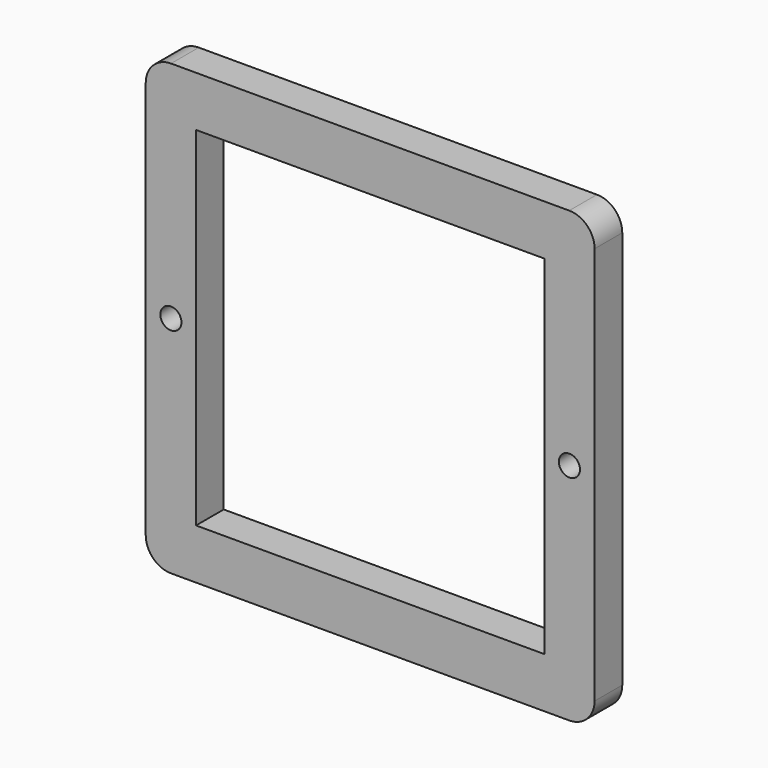
from build123d import *

# Parameters (mm, degrees)
F0_R     = 1.5875
F0_W     = 52.3748
F0_H     = 52.3748
F1_DEPTH = 5.207


with BuildPart() as f1:
    # F0 (on Front) → F1 (new body)
    with BuildSketch(Plane.XZ):
        with BuildLine():
            Line((-29.9466, -33.7566), (29.9466, -33.7566))
            ThreePointArc((29.9466, -33.7566), (32.640677, -32.640677), (33.7566, -29.9466))
            Line((33.7566, -29.9466), (33.7566, 29.9466))
            ThreePointArc((33.7566, 29.9466), (32.640677, 32.640677), (29.9466, 33.7566))
            Line((29.9466, 33.7566), (-29.9466, 33.7566))
            ThreePointArc((-29.9466, 33.7566), (-32.640677, 32.640677), (-33.7566, 29.9466))
            Line((-33.7566, 29.9466), (-33.7566, -29.9466))
            ThreePointArc((-33.7566, -29.9466), (-32.640677, -32.640677), (-29.9466, -33.7566))
        make_face()
        with Locations((-29.972, 0)):
            Circle(F0_R, mode=Mode.SUBTRACT)
        Rectangle(F0_W, F0_H, mode=Mode.SUBTRACT)
        with Locations((29.972, 0)):
            Circle(F0_R, mode=Mode.SUBTRACT)
    extrude(amount=F1_DEPTH)


solid = f1.part
